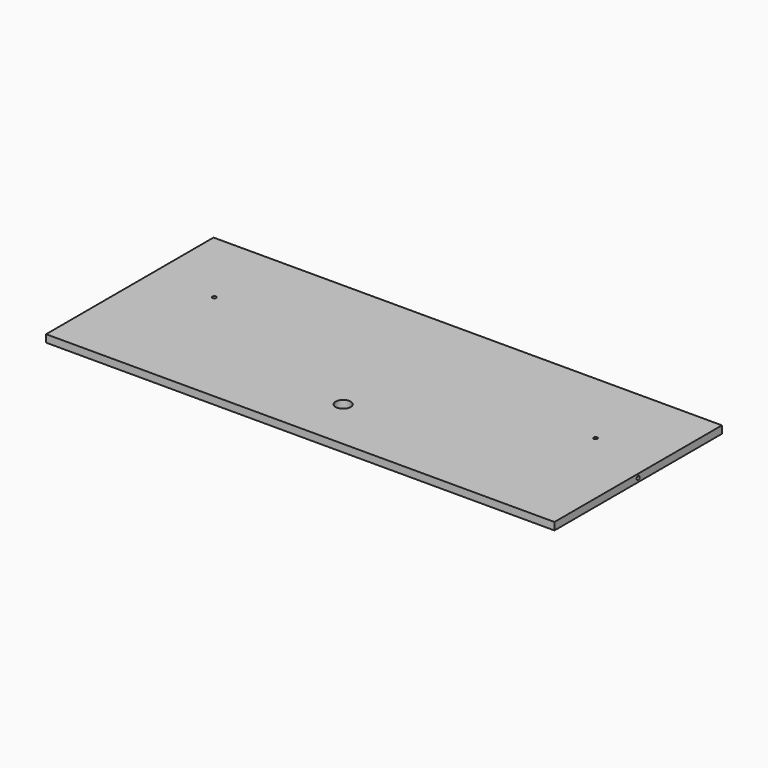
from build123d import *

# Parameters (mm, degrees)
F0_W     = 863.6
F0_H     = 355.6
F1_DEPTH = 12.7
F2_R     = 3.175
F3_DEPTH = 863.601
F4_R     = 12.7
F5_DEPTH = 25.4
F4_R_2   = 3.175
F6_DEPTH = 12.701


with BuildPart() as f1:
    # F0 (on Top) → F1 (new body)
    with BuildSketch(Plane.XY):
        with Locations((-1.815464, 22.002507)):
            Rectangle(F0_W, F0_H)
    extrude(amount=F1_DEPTH)

    # F2 (on face) → F3 (cut, through all)
    with BuildSketch(Plane.YZ.offset(429.984536)):
        with Locations((22.002507, 6.35)):
            Circle(F2_R)
    extrude(amount=-F3_DEPTH, mode=Mode.SUBTRACT)

    # F4 (on face) → F5 (cut)
    with BuildSketch(Plane.XY.offset(12.7)):
        with Locations((0, -66.897493)):
            Circle(F4_R)
    extrude(amount=-F5_DEPTH, mode=Mode.SUBTRACT)

    # F4 (on face) → F6 (cut, through all)
    with BuildSketch(Plane.XY.offset(12.7)):
        with Locations((0, -66.897493)):
            Circle(F4_R)
        with Locations((-325.665464, 66.452507)):
            Circle(F4_R_2)
        with Locations((322.034536, 66.452507)):
            Circle(F4_R_2)
    extrude(amount=-F6_DEPTH, mode=Mode.SUBTRACT)


solid = f1.part
